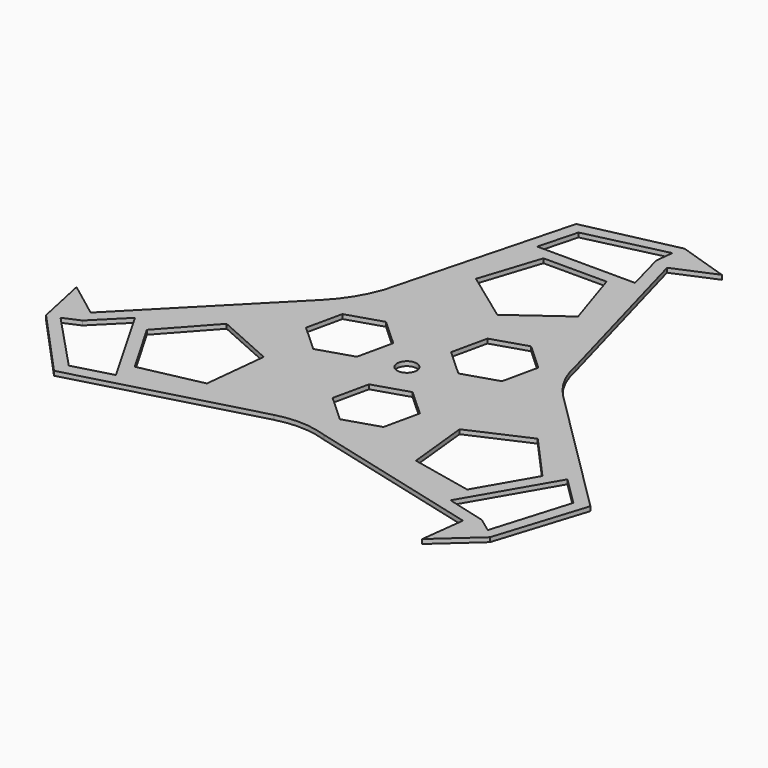
from build123d import *

# Parameters (mm, degrees)
F0_R     = 2.25
F1_DEPTH = 1


with BuildPart() as f1:
    # F0 (on Top) → F1 (new body)
    with BuildSketch(Plane.XY):
        with BuildLine():
            Line((21.677962, 62.992528), (10.139461, 66.734109))
            Line((10.139461, 66.734109), (-10.943207, 62.093519))
            Line((-10.943207, 62.093519), (-21.901843, 20.660526))
            ThreePointArc((-21.901843, 20.660526), (-24.475691, 15.352547), (-28.134067, 10.724846))
            Line((-28.134067, 10.724846), (-57.256493, -18.85125))
            Line((-57.256493, -18.85125), (-65.39211, -12.722599))
            Line((-65.39211, -12.722599), (-62.863164, -24.586024))
            Line((-62.863164, -24.586024), (-48.302961, -40.523855))
            Line((-48.302961, -40.523855), (-6.941619, -29.297815))
            ThreePointArc((-6.941619, -29.297815), (-1.048655, -28.621876), (4.779045, -29.72724))
            Line((4.779045, -29.72724), (44.953908, -40.159952))
            Line((44.953908, -40.159952), (43.714149, -50.269929))
            Line((43.714149, -50.269929), (52.723703, -42.148085))
            Line((52.723703, -42.148085), (59.246168, -21.569664))
            Line((59.246168, -21.569664), (28.843462, 8.637289))
            ThreePointArc((28.843462, 8.637289), (25.3116, 13.402776), (23.355023, 19.002394))
            Line((23.355023, 19.002394), (12.302585, 59.011202))
            Line((12.302585, 59.011202), (21.677962, 62.992528))
        make_face()
        Polygon((-47.492523, -37.312847), (-60.201257, -23.785029), (-56.482609, -22.158133), (-49.804259, -15.479784), (-38.642525, -34.910835), align=None, mode=Mode.SUBTRACT)
        Polygon((-22.399317, -12.932252), (-23.90843, -27.290503), (-38.03028, -30.292195), (-45.24895, -17.789091), (-35.588484, -7.060056), align=None, mode=Mode.SUBTRACT)
        Polygon((-21.780303, 8.790208), (-13.818382, 11.310016), (-7.655204, 5.674693), (-9.453948, -2.480436), (-17.415869, -5.000244), (-23.579047, 0.635079), align=None, mode=Mode.SUBTRACT)
        Polygon((47.430811, -37.836308), (38.308016, -35.391861), (49.554932, -16.009991), (56.060134, -22.473308), (50.699068, -40.243304), align=None, mode=Mode.SUBTRACT)
        Polygon((3.277608, -23.2574), (-2.88557, -17.622078), (-1.086826, -9.466948), (6.875095, -6.947141), (13.038273, -12.582463), (11.239529, -20.737593), align=None, mode=Mode.SUBTRACT)
        Circle(F0_R, mode=Mode.SUBTRACT)
        Polygon((22.399317, -12.932252), (35.588484, -7.060056), (45.24895, -17.789091), (38.03028, -30.292195), (23.90843, -27.290503), align=None, mode=Mode.SUBTRACT)
        Polygon((18.502695, 14.467192), (16.703952, 6.312062), (8.742031, 3.792255), (2.578853, 9.427577), (4.377597, 17.582707), (12.339518, 20.102514), align=None, mode=Mode.SUBTRACT)
        Polygon((-11.680054, 34.350559), (-7.21867, 48.081286), (7.21867, 48.081286), (11.680054, 34.350559), (0, 25.864504), align=None, mode=Mode.SUBTRACT)
        Polygon((9.051799, 59.994441), (11.496243, 50.871646), (-10.912408, 50.920826), (-8.567612, 59.786155), (9.50219, 64.028333), align=None, mode=Mode.SUBTRACT)
    extrude(amount=F1_DEPTH)


solid = f1.part
